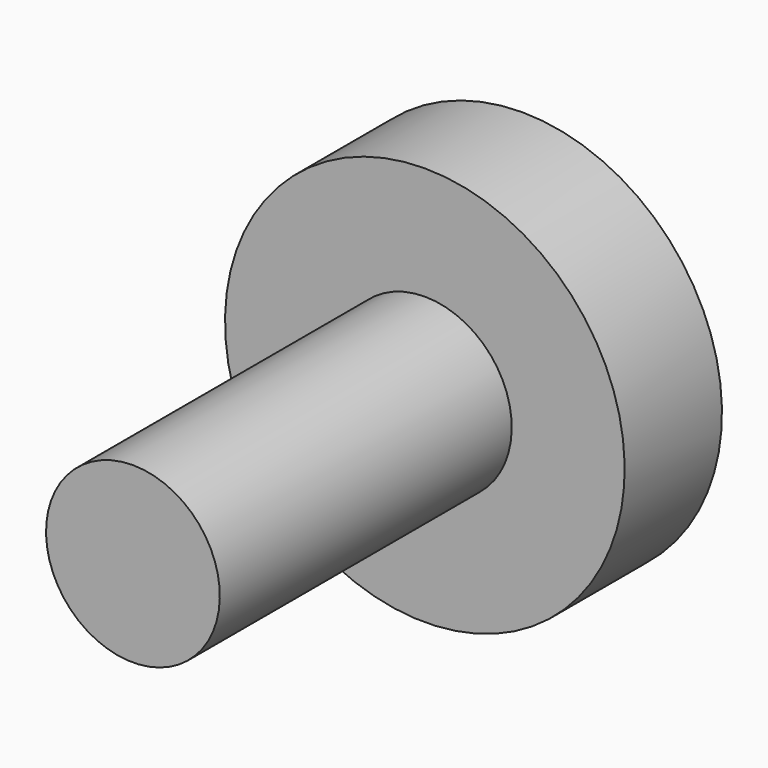
from build123d import *


with BuildPart() as f1:
    # F0 (on Right) → F1 (revolve)
    with BuildSketch(Plane.YZ):
        with BuildLine():
            Line((-30.820754, 5), (-30.820754, 0))
            Line((-30.820754, 0), (0, 0))
            ThreePointArc((0, 0), (-0.715488, 5.920445), (-2.820754, 11.5))
            Line((-2.820754, 11.5), (-9.820754, 11.5))
            Line((-9.820754, 11.5), (-9.820754, 5))
            Line((-9.820754, 5), (-30.820754, 5))
        make_face()
    revolve(axis=Axis((0, -15.410377, 0), (0, 1, 0)))


solid = f1.part
